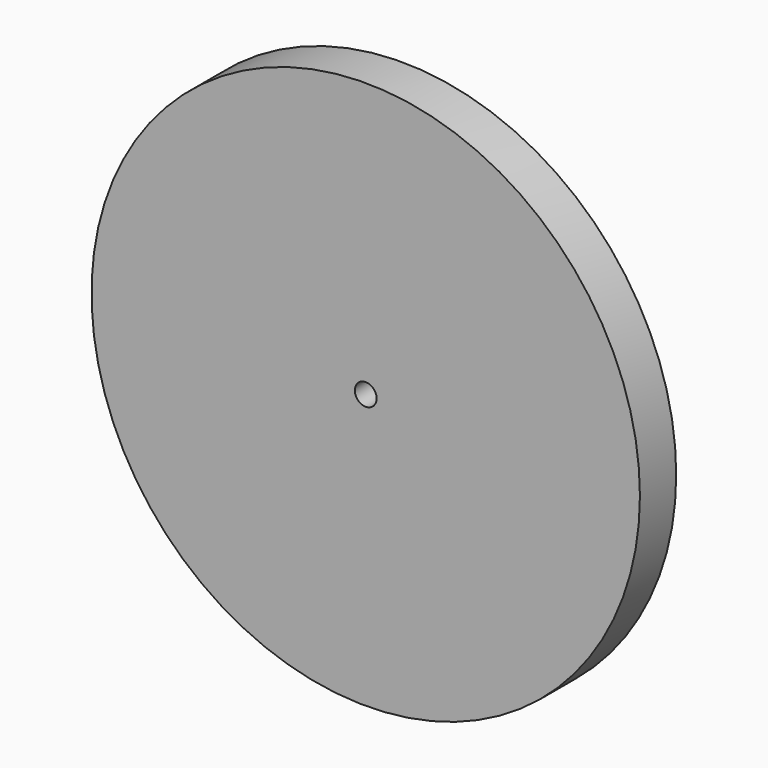
from build123d import *

# Parameters (mm, degrees)
F0_R     = 60.459431
F2_DEPTH = 5
F1_R     = 2.4
F3_DEPTH = 5
F4_DEPTH = 25
F5_DEPTH = 25


with BuildPart() as f2:
    # F0 (on Front) → F2 (new body, symmetric)
    with BuildSketch(Plane.XZ):
        Circle(F0_R)
    extrude(amount=F2_DEPTH, both=True)

    # F1 (on face) → F3 (join, through all)
    with BuildSketch(Plane.XZ):
        Circle(F1_R)
    extrude(amount=F3_DEPTH)

    # F1 (on face) → F4 (cut)
    with BuildSketch(Plane.XZ):
        Circle(F1_R)
    extrude(amount=-F4_DEPTH, mode=Mode.SUBTRACT)

    # F1 (on face) → F5 (cut)
    with BuildSketch(Plane.XZ):
        Circle(F1_R)
    extrude(amount=F5_DEPTH, mode=Mode.SUBTRACT)


solid = f2.part
